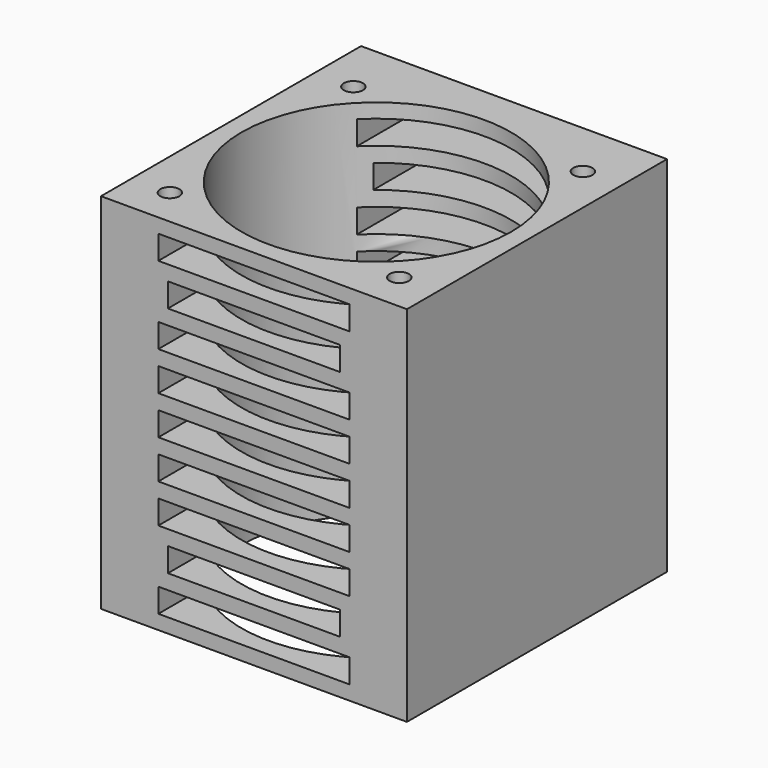
from build123d import *

# Parameters (mm, degrees)
SKETCH_R        = 14.1
SKETCH_R_2      = 1
PAD_DEPTH       = 38
SKETCH001_R     = 1.5
POCKET_DEPTH    = 3
SKETCH002_W     = 20
SKETCH002_H     = 2.5
SKETCH002_W_2   = 18
POCKET001_DEPTH = 34.001


with BuildPart() as part:
    # Sketch → Pad (new body)
    with BuildSketch(Plane.XY):
        Polygon((16, -16), (16, 16), (16, 18), (-16, 18), (-16, 16), (-16, -16), align=None)
        Circle(SKETCH_R, mode=Mode.SUBTRACT)
        with Locations((-12, 12)):
            Circle(SKETCH_R_2, mode=Mode.SUBTRACT)
        with Locations((12, 12)):
            Circle(SKETCH_R_2, mode=Mode.SUBTRACT)
        with Locations((12, -12)):
            Circle(SKETCH_R_2, mode=Mode.SUBTRACT)
        with Locations((-12, -12)):
            Circle(SKETCH_R_2, mode=Mode.SUBTRACT)
    extrude(amount=PAD_DEPTH)

    # Sketch001 (on Face5 of Pad) → Pocket (cut)
    with BuildSketch(Plane(origin=(0, 18, 0), x_dir=(-1, 0, 0), z_dir=(0, 1, 0))):
        with Locations((-12, 31)):
            Circle(SKETCH001_R)
        with Locations((12, 31)):
            Circle(SKETCH001_R)
        with Locations((12, 7)):
            Circle(SKETCH001_R)
        with Locations((-12, 7)):
            Circle(SKETCH001_R)
    extrude(amount=-POCKET_DEPTH, mode=Mode.SUBTRACT)

    # Sketch002 (on Face6 of Pocket) → Pocket001 (cut, through all)
    with BuildSketch(Plane(origin=(0, 18, 0), x_dir=(-1, 0, 0), z_dir=(0, 1, 0))):
        with Locations((0, 27.125)):
            Rectangle(SKETCH002_W, SKETCH002_H)
        with Locations((0, 23.0625)):
            Rectangle(SKETCH002_W, SKETCH002_H)
        with Locations((0, 19)):
            Rectangle(SKETCH002_W, SKETCH002_H)
        with Locations((0, 14.9375)):
            Rectangle(SKETCH002_W, SKETCH002_H)
        with Locations((0, 10.875)):
            Rectangle(SKETCH002_W, SKETCH002_H)
        with Locations((0, 6.8125)):
            Rectangle(SKETCH002_W_2, SKETCH002_H)
        with Locations((0, 31.1875)):
            Rectangle(SKETCH002_W_2, SKETCH002_H)
        with Locations((0, 2.75)):
            Rectangle(SKETCH002_W, SKETCH002_H)
        with Locations((0, 35.25)):
            Rectangle(SKETCH002_W, SKETCH002_H)
    extrude(amount=-POCKET001_DEPTH, mode=Mode.SUBTRACT)


solid = part.part
